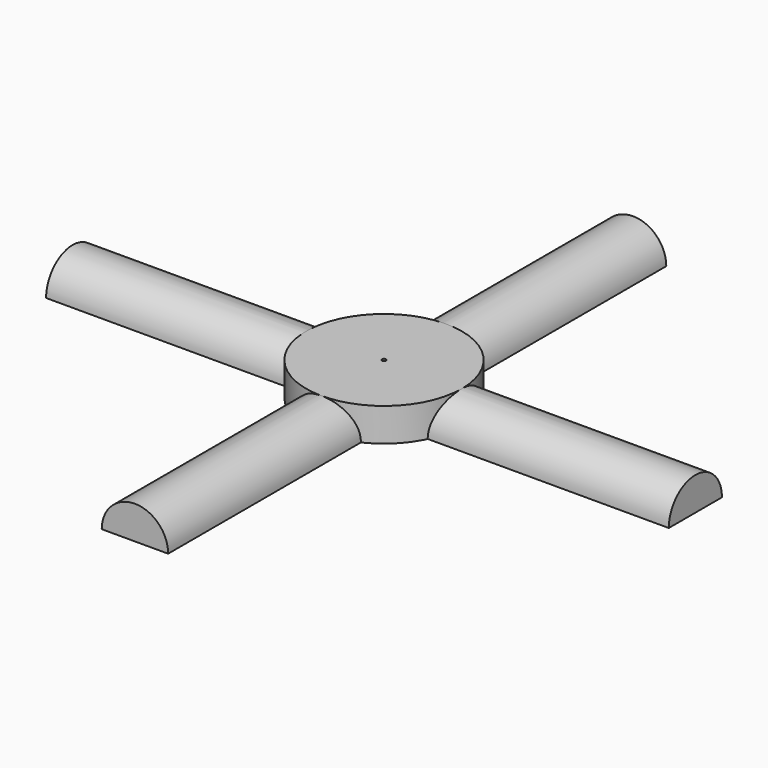
from build123d import *

# Parameters (mm, degrees)
F3_DEPTH = 38.1
F4_DEPTH = 38.1
F0_R     = 9.525
F5_DEPTH = 4.064
F6_R     = 0.254
F7_DEPTH = 25.4


with BuildPart() as f3:
    # F2 (on Front) → F3 (new body, symmetric)
    with BuildSketch(Plane.XZ):
        with BuildLine():
            ThreePointArc((4.064, 0), (0, 4.064), (-4.064, 0))
            Line((-4.064, 0), (4.064, 0))
        make_face()
    extrude(amount=F3_DEPTH, both=True)


with BuildPart() as f4:
    # F1 (on Right) → F4 (new body, symmetric)
    with BuildSketch(Plane.YZ):
        with BuildLine():
            Line((-4.064, 0), (4.064, 0))
            ThreePointArc((4.064, 0), (0, 4.064), (-4.064, 0))
        make_face()
    extrude(amount=F4_DEPTH, both=True)


with BuildPart() as f5:
    # F0 (on Top) → F5 (new body)
    with BuildSketch(Plane.XY):
        Circle(F0_R)
    extrude(amount=F5_DEPTH)


with BuildPart() as f7_tool:
    # F6 (on face) → F7 (new body)
    with BuildSketch(Plane.XY.offset(4.064)):
        Circle(F6_R)
    extrude(amount=-F7_DEPTH)


with BuildPart() as f3_1:
    add(f3.part)

    # F7: cut by f7_tool
    add(f7_tool.part, mode=Mode.SUBTRACT)


with BuildPart() as f4_1:
    add(f4.part)

    # F7: cut by f7_tool
    add(f7_tool.part, mode=Mode.SUBTRACT)


with BuildPart() as f5_1:
    add(f5.part)

    # F7: cut by f7_tool
    add(f7_tool.part, mode=Mode.SUBTRACT)


solid = Compound([f3_1.part, f4_1.part, f5_1.part])
